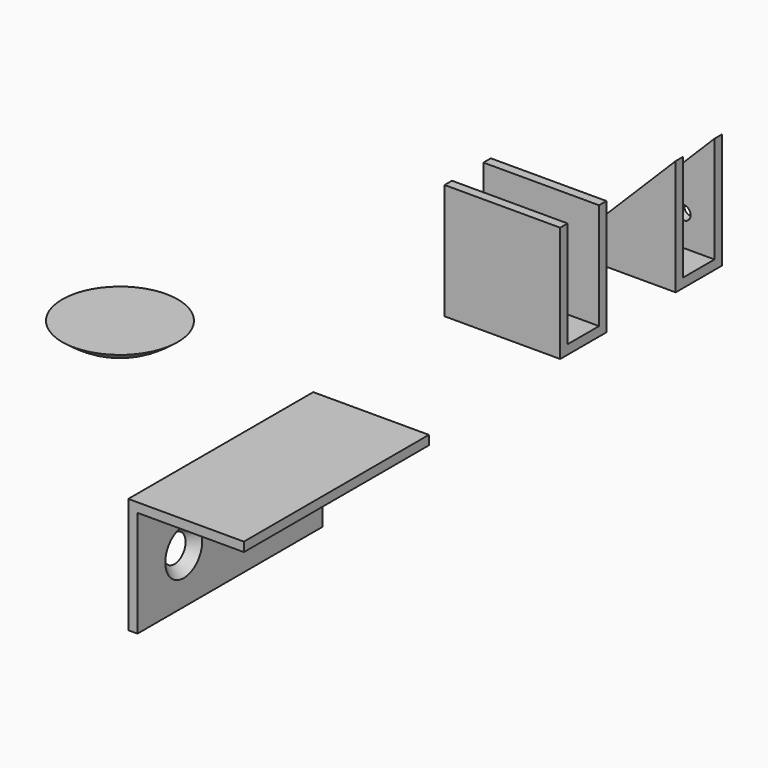
from build123d import *

# Parameters (mm, degrees)
F1_DEPTH       = 50
F3_D           = 5
F3_CSINK_D     = 10
F3_CSINK_ANGLE = 90
F7_DEPTH       = 25
F9_DEPTH       = 25
F11_DEPTH      = 25
F14_D          = 3
F14_DEPTH      = 5
F14_TIP        = 0.9012909285
F15_D          = 3
F15_DEPTH      = 5
F15_TIP        = 0.9012909285


with BuildPart() as f1:
    # F0 (on Front) → F1 (new body)
    with BuildSketch(Plane.XZ):
        Polygon((25, -2), (25, 0), (0, 0), (0, -25), (2, -25), (2, -2), align=None)
    extrude(amount=F1_DEPTH)

    # F3 (through all)
    with Locations(Plane.YZ.offset(2)):
        with Locations((-37.5, -14.5), (-12.5, -14.5)):
            CounterSinkHole(F3_D / 2, F3_CSINK_D / 2, counter_sink_angle=F3_CSINK_ANGLE)


with BuildPart() as f5:
    # F4 (on Front) → F5 (revolve)
    with BuildSketch(Plane.XZ):
        with BuildLine():
            Line((-41.7888606299, 0), (-54.2888606299, 0))
            add(Edge.make_bspline(
                [(-41.7888606299, -4), (-44.266934, -4.0125659739), (-49.084667253, -4.0369960456), (-52.5876766603, -1.3196421541), (-54.2888606299, 0)],
                knots=[0, 0, 0, 0, 0.5143650011, 1, 1, 1, 1], degree=3))
            Line((-41.7888606299, -4), (-41.7888606299, 0))
        make_face()
    revolve(axis=Axis((-41.7888606299, 0, -2), (0, 0, -1)))


with BuildPart() as f7:
    # F6 (on Right) → F7 (new body)
    with BuildSketch(Plane.YZ):
        Polygon((68.6983019114, 25), (66.6983001937, 25), (66.6983001937, 0), (79.1983001937, 0), (79.1983001937, 25), (77.1982984761, 25), (77.1982984761, 2.0000017176), (68.6983019114, 2.0000017176), align=None)
    extrude(amount=F7_DEPTH)

    # F8 (on face) → F9 (cut)
    with BuildSketch(Plane(origin=(0, 79.1983001937, 0), x_dir=(-1, 0, 0), z_dir=(0, 1, 0))):
        Polygon((-22.9984801263, 25), (-25, 25), (0, 0), (0, 25), align=None)
    extrude(amount=-F9_DEPTH, mode=Mode.SUBTRACT)

    # F14
    with Locations(Plane(origin=(0, 79.1983001937, 0), x_dir=(-1, 0, 0), z_dir=(0, 1, 0))):
        with Locations((-18.3401871473, 8.7614459917)):
            Hole(F14_D / 2, depth=F14_DEPTH)
            with Locations((0, 0, -(F14_DEPTH + F14_TIP / 2))):  # 118° drill point
                Cone(0, F14_D / 2, F14_TIP, mode=Mode.SUBTRACT)


with BuildPart() as f11:
    # F10 (on Right) → F11 (new body)
    with BuildSketch(Plane.YZ):
        Polygon((37.4900956154, 25), (35.4900956154, 25), (35.4900956154, 0), (47.9900956154, 0), (47.9900956154, 25), (45.9900956154, 25), (45.9900956154, 2), (37.4900956154, 2), align=None)
    extrude(amount=F11_DEPTH)

    # F15
    with Locations(Plane(origin=(0, 47.9900956154, 0), x_dir=(-1, 0, 0), z_dir=(0, 1, 0))):
        with Locations((-12.6069718972, 12.4148484319)):
            Hole(F15_D / 2, depth=F15_DEPTH)
            with Locations((0, 0, -(F15_DEPTH + F15_TIP / 2))):  # 118° drill point
                Cone(0, F15_D / 2, F15_TIP, mode=Mode.SUBTRACT)


solid = Compound([f1.part, f5.part, f7.part, f11.part])
